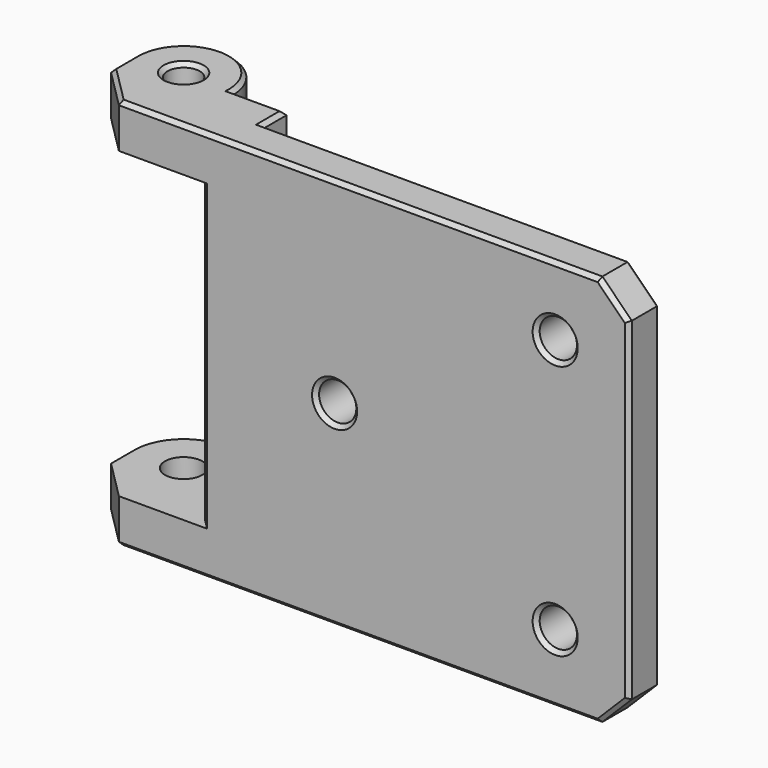
from build123d import *

# Parameters (mm, degrees)
CYLINDER008_R         = 1.9
CYLINDER008_DEPTH     = 10
CYLINDER007_R         = 1.9
CYLINDER007_DEPTH     = 10
CYLINDER009_R         = 1.9
CYLINDER009_DEPTH     = 10
CYLINDER006_R         = 1.9
CYLINDER006_DEPTH     = 10
CYLINDER010_R         = 1.65
CYLINDER010_DEPTH     = 10
BOX025_W              = 13
BOX025_H              = 14
BOX025_DEPTH          = 31
CYLINDER004_R         = 5
CYLINDER004_DEPTH     = 40
BOX023_W              = 46
BOX023_H              = 4
BOX023_DEPTH          = 40
BOX024_W              = 56
BOX024_H              = 7
BOX024_DEPTH          = 40
CHAMFER006006007_SIZE = 4
CHAMFER006006008_SIZE = 3
CHAMFER006006009_SIZE = 1
CHAMFER006006010_SIZE = 0.4


with BuildPart() as cylinder008:
    # Cylinder008 → Cylinder008 (new body)
    with BuildSketch(Plane(origin=(37.5, -9, 33), x_dir=(1, 0, 0), z_dir=(0, 1, 0))):
        Circle(CYLINDER008_R)
    extrude(amount=CYLINDER008_DEPTH)


with BuildPart() as cylinder007:
    # Cylinder007 → Cylinder007 (new body)
    with BuildSketch(Plane(origin=(15, -9, 20), x_dir=(1, 0, 0), z_dir=(0, 1, 0))):
        Circle(CYLINDER007_R)
    extrude(amount=CYLINDER007_DEPTH)


with BuildPart() as fusion002:
    # Cylinder009 → Cylinder009 (new body)
    with BuildSketch(Plane(origin=(37.5, -9, 7), x_dir=(1, 0, 0), z_dir=(0, 1, 0))):
        Circle(CYLINDER009_R)
    extrude(amount=CYLINDER009_DEPTH)

    # Fusion002: union Cylinder008, Cylinder007
    add(cylinder008.part)
    add(cylinder007.part)


with BuildPart() as cylinder006:
    # Cylinder006 → Cylinder006 (new body)
    with BuildSketch(Plane(origin=(-6, -1, 0), x_dir=(1, 0, 0), z_dir=(0, 0, 1))):
        Circle(CYLINDER006_R)
    extrude(amount=CYLINDER006_DEPTH)


with BuildPart() as fusion004:
    # Cylinder010 → Cylinder010 (new body)
    with BuildSketch(Plane(origin=(-6, -1, 30), x_dir=(1, 0, 0), z_dir=(0, 0, 1))):
        Circle(CYLINDER010_R)
    extrude(amount=CYLINDER010_DEPTH)

    # Fusion003: union Cylinder006
    add(cylinder006.part)

    # Fusion004: union Fusion002
    add(fusion002.part)


with BuildPart() as cube024:
    # Box025 → Box025 (new body)
    with BuildSketch(Plane(origin=(-12, -9, 4.5), x_dir=(1, 0, 0), z_dir=(0, 0, 1))):
        with Locations((6.5, 7)):
            Rectangle(BOX025_W, BOX025_H)
    extrude(amount=BOX025_DEPTH)


with BuildPart() as cylinder004:
    # Cylinder004 → Cylinder004 (new body)
    with BuildSketch(Plane(origin=(-6, -1, 0), x_dir=(1, 0, 0), z_dir=(0, 0, 1))):
        Circle(CYLINDER004_R)
    extrude(amount=CYLINDER004_DEPTH)


with BuildPart() as cube022:
    # Box023 → Box023 (new body)
    with BuildSketch(Plane(origin=(4.5, -4, 0), x_dir=(1, 0, 0), z_dir=(0, 0, 1))):
        with Locations((23, 2)):
            Rectangle(BOX023_W, BOX023_H)
    extrude(amount=BOX023_DEPTH)


with BuildPart() as chamfer006006010:
    # Box024 → Box024 (new body)
    with BuildSketch(Plane(origin=(-11, -8, 0), x_dir=(1, 0, 0), z_dir=(0, 0, 1))):
        with Locations((28, 3.5)):
            Rectangle(BOX024_W, BOX024_H)
    extrude(amount=BOX024_DEPTH)

    # Chamfer006006007
    chamfer006006007_edges = [chamfer006006010.edges().sort_by_distance(p)[0] for p in [
        (-11, -8, 20),
    ]]
    chamfer(chamfer006006007_edges, length=CHAMFER006006007_SIZE)

    # Cut002002: cut Cube022
    add(cube022.part, mode=Mode.SUBTRACT)

    # Chamfer006006008
    chamfer006006008_edges = [chamfer006006010.edges().sort_by_distance(p)[0] for p in [
        (45, -6, 40),
        (45, -6, 0),
    ]]
    chamfer(chamfer006006008_edges, length=CHAMFER006006008_SIZE)

    # Fusion001: union Cylinder004
    add(cylinder004.part)

    # Cut002003: cut Cube024
    add(cube024.part, mode=Mode.SUBTRACT)

    # Chamfer006006009
    chamfer006006009_edges = [chamfer006006010.edges().sort_by_distance(p)[0] for p in [
        (1, -8, 20),
    ]]
    chamfer(chamfer006006009_edges, length=CHAMFER006006009_SIZE)

    # Cut002004: cut Fusion004
    add(fusion004.part, mode=Mode.SUBTRACT)

    # Chamfer006006010
    chamfer006006010_edges = [chamfer006006010.edges().sort_by_distance(p)[0] for p in [
        (17.5, -8, 40),
        (43.5, -8, 38.5),
        (45, -8, 20),
        (17.5, -8, 0),
        (43.5, -8, 1.5),
        (13.1, -8, 20),
        (35.6, -8, 7),
        (35.6, -8, 33),
        (-9, -6, 40),
        (43.5, -4, 38.5),
        (-9, -6, 0),
        (45, -4, 20),
        (43.5, -4, 1.5),
        (1.75, -1, 0),
        (1.75, -1, 40),
        (-6, 4, 40),
        (-11, -2.5, 40),
        (-6, 0.65, 40),
        (-6, -2.65, 40),
        (-6, 4, 0),
        (-11, -2.5, 0),
        (-6, -2.9, 0),
        (-6, 0.9, 0),
        (4.5, -2.5, 40),
        (4.5, -2.5, 0),
        (23.25, -4, 0),
        (23.25, -4, 40),
    ]]
    chamfer(chamfer006006010_edges, length=CHAMFER006006010_SIZE)


solid = chamfer006006010.part
